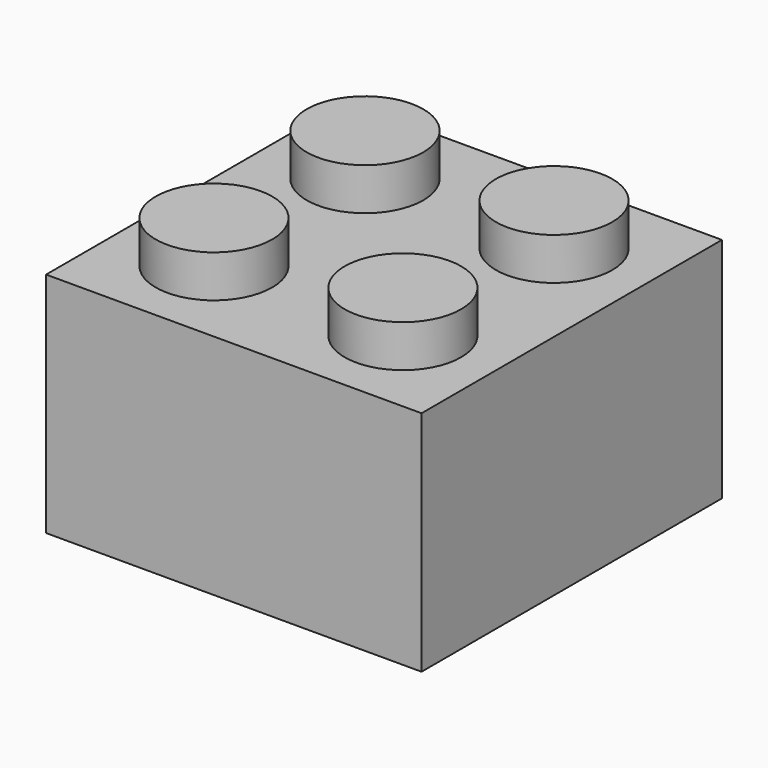
from build123d import *

# Parameters (mm, degrees)
F0_W      = 15.7988
F0_H      = 15.7988
F1_DEPTH  = 4.7879
F2_R      = 2.454504
F6_DEPTH  = 1.778
F3_R      = 2.4511
F7_DEPTH  = 1.778
F4_R      = 2.4511
F8_DEPTH  = 1.778
F5_R      = 2.4511
F9_DEPTH  = 1.778
F10_W     = 14.667356
F10_H     = 14.690364
F13_DEPTH = 8.3312
F11_R     = 3.2004
F14_DEPTH = 8.3312
F12_R     = 2.794
F15_DEPTH = 8.3312


with BuildPart() as f1:
    # F0 (on Top) → F1 (new body, symmetric)
    with BuildSketch(Plane.XY):
        Rectangle(F0_W, F0_H)
    extrude(amount=F1_DEPTH, both=True)

    # F2 (on face) → F6 (join)
    with BuildSketch(Plane.XY.offset(4.7879)):
        with Locations((-3.978046, 3.971696)):
            Circle(F2_R)
    extrude(amount=F6_DEPTH)

    # F3 (on face) → F7 (join)
    with BuildSketch(Plane.XY.offset(4.7879)):
        with Locations((3.9751, 3.9751)):
            Circle(F3_R)
    extrude(amount=F7_DEPTH)

    # F4 (on face) → F8 (join)
    with BuildSketch(Plane.XY.offset(4.7879)):
        with Locations((-3.9751, -3.9751)):
            Circle(F4_R)
    extrude(amount=F8_DEPTH)

    # F5 (on face) → F9 (join)
    with BuildSketch(Plane.XY.offset(4.7879)):
        with Locations((3.9751, -3.9751)):
            Circle(F5_R)
    extrude(amount=F9_DEPTH)

    # F10 (on face) → F13 (cut)
    with BuildSketch(Plane(origin=(0, 0, -4.7879), x_dir=(1, 0, 0), z_dir=(0, 0, -1))):
        Rectangle(F10_W, F10_H)
    extrude(amount=-F13_DEPTH, mode=Mode.SUBTRACT)

    # F11 (on face) → F14 (join)
    with BuildSketch(Plane(origin=(0, 0, -4.7879), x_dir=(1, 0, 0), z_dir=(0, 0, -1))):
        Circle(F11_R)
    extrude(amount=-F14_DEPTH)

    # F12 (on face) → F15 (cut)
    with BuildSketch(Plane(origin=(0, 0, -4.7879), x_dir=(1, 0, 0), z_dir=(0, 0, -1))):
        Circle(F12_R)
    extrude(amount=-F15_DEPTH, mode=Mode.SUBTRACT)


solid = f1.part
